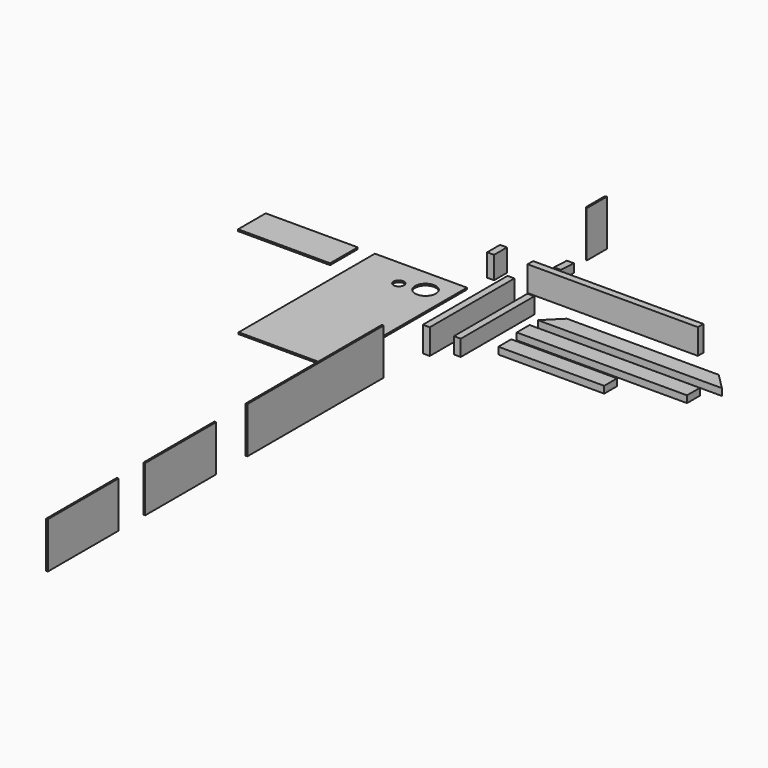
from build123d import *

# Parameters (mm, degrees)
F0_W      = 38.1
F0_H      = 139.7
F1_DEPTH  = 584.2
F2_W      = 38.1
F2_H      = 139.7
F3_DEPTH  = 939.8
F4_W      = 38.1
F4_H      = 88.9
F5_DEPTH  = 508
F6_W      = 508
F6_H      = 939.8
F7_DEPTH  = 9.525
F8_W      = 508
F8_H      = 190.5
F9_DEPTH  = 9.525
F11_DEPTH = 9.525
F12_W     = 488.95
F12_H     = 254
F13_DEPTH = 9.525
F14_W     = 488.95
F14_H     = 254
F15_DEPTH = 9.525
F17_DEPTH = 38.1
F18_W     = 939.8
F18_H     = 88.9
F19_DEPTH = 38.1
F20_W     = 584.2
F20_H     = 88.9
F21_DEPTH = 38.1
F22_W     = 38.1
F22_H     = 88.9
F23_DEPTH = 123.825
F25_DEPTH = 38.1
F26_W     = 143.6878
F26_H     = 254
F27_DEPTH = 9.525
F29_DEPTH = 254
F31_R     = 28.575
F32_DEPTH = 76.2
F33_R     = 57.3405
F34_DEPTH = 25.4


with BuildPart() as f1:
    # F0 (on Front) → F1 (new body)
    with BuildSketch(Plane.XZ):
        with Locations((19.05, 69.85)):
            Rectangle(F0_W, F0_H)
    extrude(amount=F1_DEPTH)


with BuildPart() as f3:
    # F2 (on Right) → F3 (new body)
    with BuildSketch(Plane.YZ):
        with Locations((157.63661, 69.85)):
            Rectangle(F2_W, F2_H)
    extrude(amount=F3_DEPTH)


with BuildPart() as f5:
    # F4 (on Front) → F5 (new body)
    with BuildSketch(Plane.XZ):
        with Locations((129.106149, 44.45)):
            Rectangle(F4_W, F4_H)
    extrude(amount=F5_DEPTH)


with BuildPart() as f7:
    # F6 (on Top) → F7 (new body)
    with BuildSketch(Plane.XY):
        with Locations((-478.08211, -469.9)):
            Rectangle(F6_W, F6_H)
    extrude(amount=F7_DEPTH)

    # F31 (on face) → F32 (cut)
    with BuildSketch(Plane(origin=(0, -2.046521, 48.828516), x_dir=(1, 0, 0), z_dir=(0, -0.041876, 0.999123))):
        with Locations((-478.08211, -152.001134)):
            Circle(F31_R)
    extrude(amount=-F32_DEPTH, mode=Mode.SUBTRACT)

    # F33 (on face) → F34 (cut)
    with BuildSketch(Plane.XY.offset(9.525)):
        with Locations((-351.08211, -127)):
            Circle(F33_R)
    extrude(amount=-F34_DEPTH, mode=Mode.SUBTRACT)


with BuildPart() as f9:
    # F8 (on Top) → F9 (new body)
    with BuildSketch(Plane.XY):
        with Locations((-1080.823873, -95.25)):
            Rectangle(F8_W, F8_H)
    extrude(amount=F9_DEPTH)


with BuildPart() as f11:
    # F10 (on Right) → F11 (new body)
    with BuildSketch(Plane.YZ):
        Polygon((-1616.281064, 0), (-866.981064, 0), (-866.981064, 254), (-1806.781064, 254), (-1806.781064, 0), align=None)
    extrude(amount=F11_DEPTH)


with BuildPart() as f13:
    # F12 (on Right) → F13 (new body)
    with BuildSketch(Plane.YZ):
        with Locations((-2266.970532, 127)):
            Rectangle(F12_W, F12_H)
    extrude(amount=F13_DEPTH)


with BuildPart() as f15:
    # F14 (on Right) → F15 (new body)
    with BuildSketch(Plane.YZ):
        with Locations((-2939.276345, 127)):
            Rectangle(F14_W, F14_H)
    extrude(amount=F15_DEPTH)


with BuildPart() as f17:
    # F16 (on Top) → F17 (new body)
    with BuildSketch(Plane.XY):
        Polygon((1165.565014, 0), (327.365014, 0), (238.465014, -88.9), (1254.465014, -88.9), align=None)
    extrude(amount=F17_DEPTH)


with BuildPart() as f19:
    # F18 (on Top) → F19 (new body)
    with BuildSketch(Plane.XY):
        with Locations((708.829325, -190.742461)):
            Rectangle(F18_W, F18_H)
    extrude(amount=F19_DEPTH)


with BuildPart() as f21:
    # F20 (on Top) → F21 (new body)
    with BuildSketch(Plane.XY):
        with Locations((552.551422, -344.465377)):
            Rectangle(F20_W, F20_H)
    extrude(amount=F21_DEPTH)


with BuildPart() as f23:
    # F22 (on Top) → F23 (new body)
    with BuildSketch(Plane.XY):
        with Locations((-206.037387, 185.440167)):
            Rectangle(F22_W, F22_H)
    extrude(amount=F23_DEPTH)


with BuildPart() as f25:
    # F24 (on Right) → F25 (new body)
    with BuildSketch(Plane.YZ):
        Polygon((320.726842, 50.8), (320.726842, 0), (409.626842, 0), (409.626842, 47.073986), align=None)
    extrude(amount=F25_DEPTH)


with BuildPart() as f27:
    # F26 (on Right) → F27 (new body)
    with BuildSketch(Plane.YZ):
        with Locations((604.13243, 127)):
            Rectangle(F26_W, F26_H)
    extrude(amount=F27_DEPTH)

    # F28 (on face) → F29 (cut)
    with BuildSketch(Plane.XY.offset(254)):
        Polygon((0, 666.45133), (9.525, 675.97633), (0, 675.97633), align=None)
        Polygon((0, 532.28853), (9.525, 532.28853), (0, 541.81353), align=None)
    extrude(amount=-F29_DEPTH, mode=Mode.SUBTRACT)


solid = Compound([f1.part, f3.part, f5.part, f7.part, f9.part, f11.part, f13.part, f15.part, f17.part, f19.part, f21.part, f23.part, f25.part, f27.part])
